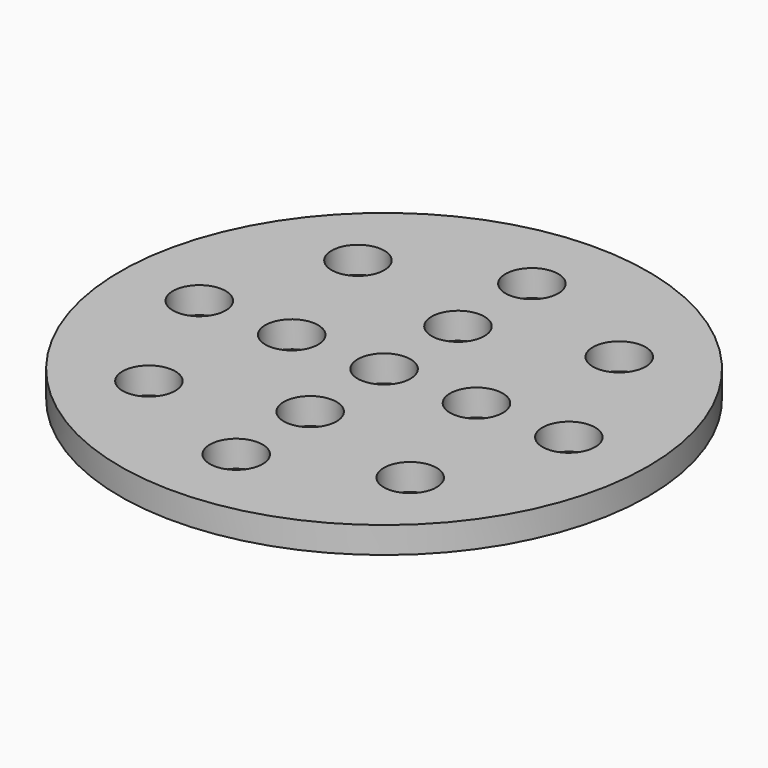
from build123d import *

# Parameters (mm, degrees)
F0_R     = 200
F1_DEPTH = 20
F2_R     = 20
F3_DEPTH = 25


with BuildPart() as f1:
    # F0 (on Top) → F1 (new body)
    with BuildSketch(Plane.XY):
        Circle(F0_R)
    extrude(amount=F1_DEPTH)

    # F2 (on face) → F3 (cut)
    with BuildSketch(Plane.XY.offset(20)):
        Circle(F2_R)
        with Locations((-70, 0)):
            Circle(F2_R)
        with Locations((-140, 0)):
            Circle(F2_R)
        with Locations((0, -70)):
            Circle(F2_R)
        with Locations((70, 0)):
            Circle(F2_R)
        with Locations((0, 70)):
            Circle(F2_R)
        with Locations((-98.994949, -98.994949)):
            Circle(F2_R)
        with Locations((0, -140)):
            Circle(F2_R)
        with Locations((98.994949, -98.994949)):
            Circle(F2_R)
        with Locations((140, 0)):
            Circle(F2_R)
        with Locations((98.994949, 98.994949)):
            Circle(F2_R)
        with Locations((0, 140)):
            Circle(F2_R)
        with Locations((-98.994949, 98.994949)):
            Circle(F2_R)
    extrude(amount=-F3_DEPTH, mode=Mode.SUBTRACT)


solid = f1.part
